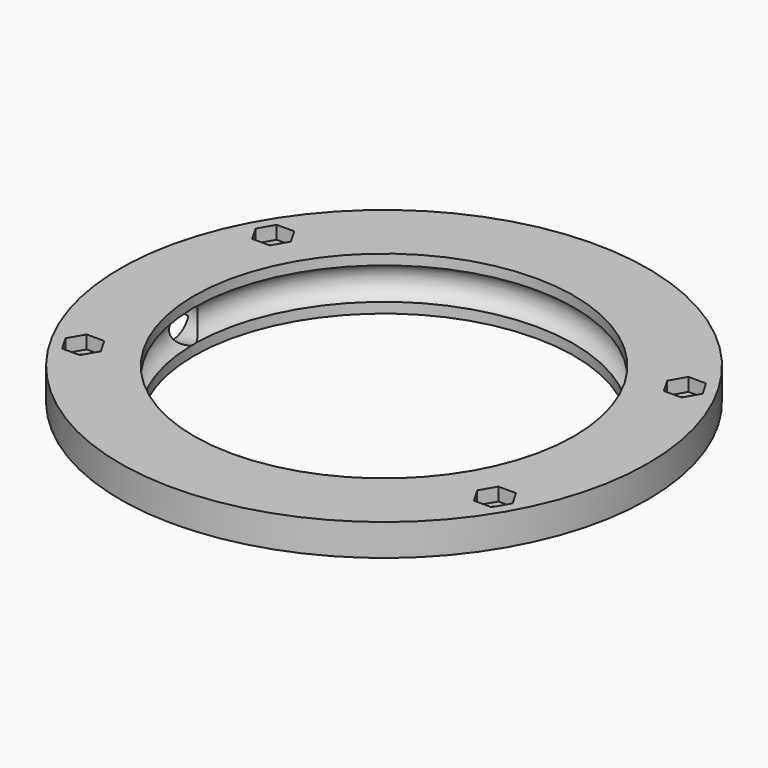
from build123d import *

# Parameters (mm, degrees)
SKETCH002_R     = 1.7
POCKET_DEPTH    = 10.001
POCKET001_DEPTH = 2.5


with BuildPart() as part:
    # Sketch → Revolution (revolve)
    with BuildSketch(Plane.XZ):
        with BuildLine():
            ThreePointArc((36, 1.960263), (38.2, 5), (36, 8.039737))
            Line((36, 8.039737), (36, 10))
            Line((36, 10), (50, 10))
            Line((50, 10), (50, 4))
            Line((50, 4), (40, 4))
            Line((40, 4), (40, 0))
            Line((40, 0), (36, 0))
            Line((36, 0), (36, 1.960263))
        make_face()
    revolve(axis=Axis((0, 0, 0), (0, 0, 1)))

    # Sketch001 (on DatumPlane) → Groove (revolve, cut)
    with BuildSketch(Plane.XY.offset(5)):
        Polygon((-35.5, 0), (-35.5, 3), (-40.5, 3.7), (-51.5, 3.7), (-51.5, 0), align=None)
    revolve(axis=Axis((0, 0, 5), (1, 0, 0)), mode=Mode.SUBTRACT)

    # Sketch002 (on Face6 of Groove) → Pocket (cut, through all)
    with BuildSketch(Plane(origin=(0, 0, 10), x_dir=(-1, 0, 0), z_dir=(0, 0, 1))):
        with Locations((39, -22.5)):
            Circle(SKETCH002_R)
        with Locations((39, 22.5)):
            Circle(SKETCH002_R)
        with Locations((-39, 22.5)):
            Circle(SKETCH002_R)
        with Locations((-39, -22.5)):
            Circle(SKETCH002_R)
    extrude(amount=-POCKET_DEPTH, mode=Mode.SUBTRACT)

    # Sketch003 (on Face6 of Pocket) → Pocket001 (cut)
    with BuildSketch(Plane(origin=(0, 0, 10), x_dir=(-1, 0, 0), z_dir=(0, 0, 1))):
        Polygon((37.325, 25.401185), (35.65, 22.5), (37.325, 19.598815), (40.675, 19.598815), (42.35, 22.5), (40.675, 25.401185), align=None)
        Polygon((-37.325, 25.401185), (-40.675, 25.401185), (-42.35, 22.5), (-40.675, 19.598815), (-37.325, 19.598815), (-35.65, 22.5), align=None)
        Polygon((-37.325, -19.598815), (-40.675, -19.598815), (-42.35, -22.5), (-40.675, -25.401185), (-37.325, -25.401185), (-35.65, -22.5), align=None)
        Polygon((40.675, -19.598815), (37.325, -19.598815), (35.65, -22.5), (37.325, -25.401185), (40.675, -25.401185), (42.35, -22.5), align=None)
    extrude(amount=-POCKET001_DEPTH, mode=Mode.SUBTRACT)


solid = part.part
